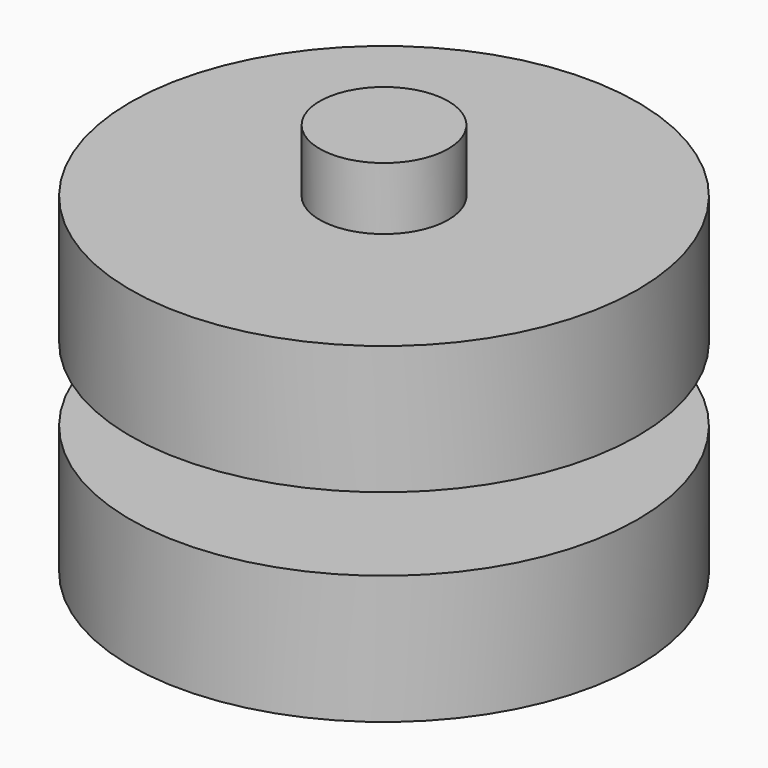
from build123d import *

# Parameters (mm, degrees)
F1_R          = 6.9
F1_R_2        = 1.75
F2_DEPTH      = 3.5
F3_DEPTH      = 5.2
F4_DEPTH      = 4
F6_DEPTH      = 3.5
F7_DEPTH      = 0.5
F7_DEPTH_BACK = 3


with BuildPart() as f2:
    # F1 (on Top) → F2 (new body)
    with BuildSketch(Plane.XY):
        Circle(F1_R)
        Circle(F1_R_2, mode=Mode.SUBTRACT)
        Circle(F1_R_2)
    extrude(amount=F2_DEPTH)

    # F1 (on Top) → F3 (join)
    with BuildSketch(Plane.XY):
        Circle(F1_R_2)
    extrude(amount=F3_DEPTH)

    # F1 (on Top) → F4 (join)
    with BuildSketch(Plane.XY):
        Circle(F1_R_2)
    extrude(amount=-F4_DEPTH)


with BuildPart() as f2_1:
    # F5: moved
    add(f2.part.moved(Location((0, 0, 2))))


with BuildPart() as f6:
    # F1 (on Top) → F6 (new body)
    with BuildSketch(Plane.XY):
        Circle(F1_R)
        Circle(F1_R_2, mode=Mode.SUBTRACT)
    extrude(amount=-F6_DEPTH)

    # F7 (add, two sides): a face of the model
    f7_faces = [f2_1.part.faces().sort_by_distance(p)[0] for p in [
        (0, 0, -2),
    ]]
    extrude(f7_faces, amount=-F7_DEPTH)
    extrude(f7_faces, amount=F7_DEPTH_BACK)


solid = Compound([f2_1.part, f6.part])
